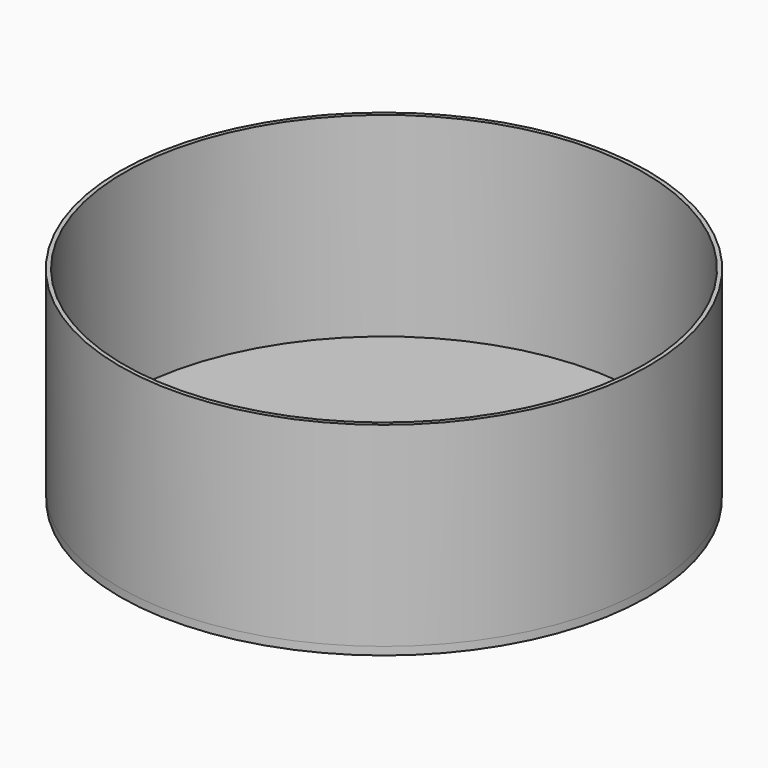
from build123d import *

# Parameters (mm, degrees)
F0_R     = 206.375
F0_R_2   = 203.2
F1_DEPTH = 152.4
F2_R     = 206.168646
F3_DEPTH = 6.35
F4_R     = 7.62
F5_DEPTH = 25.4


with BuildPart() as f1:
    # F0 (on Top) → F1 (new body)
    with BuildSketch(Plane.XY):
        Circle(F0_R)
        Circle(F0_R_2, mode=Mode.SUBTRACT)
    extrude(amount=F1_DEPTH)

    # F2 (on Top) → F3 (join)
    with BuildSketch(Plane.XY):
        Circle(F2_R)
    extrude(amount=-F3_DEPTH)

    # F4 (on face) → F5 (cut)
    with BuildSketch(Plane.XY):
        Circle(F4_R)
    extrude(amount=-F5_DEPTH, mode=Mode.SUBTRACT)


solid = f1.part
